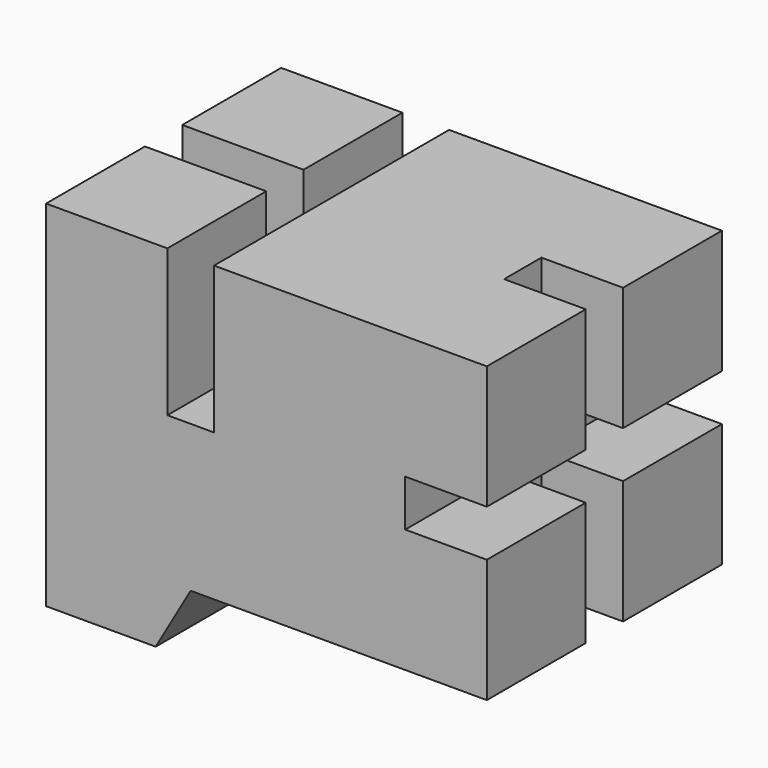
from build123d import *

# Parameters (mm, degrees)
F1_DEPTH  = 12.6
F2_W      = 2
F2_H      = 6.3
F3_DEPTH  = 12.601
F4_W      = 2
F4_H      = 6.2
F5_DEPTH  = 7.2
F6_W      = 3.5
F6_H      = 2
F7_DEPTH  = 12.601
F8_W      = 3.5
F8_H      = 2
F9_DEPTH  = 15.201
F10_R     = 1
F11_DEPTH = 15.401


with BuildPart() as f1:
    # F0 (on Front) → F1 (new body)
    with BuildSketch(Plane.XZ):
        Polygon((18.9, 0), (0, 0), (0, -12.6), (0, -15.2), (4.7, -15.2), (6.2, -12.6), (18.9, -12.6), align=None)
    extrude(amount=F1_DEPTH)

    # F2 (on face) → F3 (cut, through all)
    with BuildSketch(Plane.XZ.offset(12.6)):
        with Locations((6.2, -3.15)):
            Rectangle(F2_W, F2_H)
    extrude(amount=-F3_DEPTH, mode=Mode.SUBTRACT)

    # F4 (on face) → F5 (cut)
    with BuildSketch(Plane(origin=(0, 0, 0), x_dir=(0, -1, 0), z_dir=(-1, 0, 0))):
        with Locations((6.3, -3.1)):
            Rectangle(F4_W, F4_H)
    extrude(amount=-F5_DEPTH, mode=Mode.SUBTRACT)

    # F6 (on face) → F7 (cut, through all)
    with BuildSketch(Plane.XZ.offset(12.6)):
        with Locations((17.15, -6.3)):
            Rectangle(F6_W, F6_H)
    extrude(amount=-F7_DEPTH, mode=Mode.SUBTRACT)

    # F8 (on face) → F9 (cut, through all)
    with BuildSketch(Plane.XY):
        with Locations((17.15, -6.3)):
            Rectangle(F8_W, F8_H)
    extrude(amount=-F9_DEPTH, mode=Mode.SUBTRACT)

    # F10 (on face) → F11 (cut, through all)
    with BuildSketch(Plane.YZ.offset(15.4)):
        with Locations((-6.3, -6.3)):
            Circle(F10_R)
    extrude(amount=-F11_DEPTH, mode=Mode.SUBTRACT)


solid = f1.part
